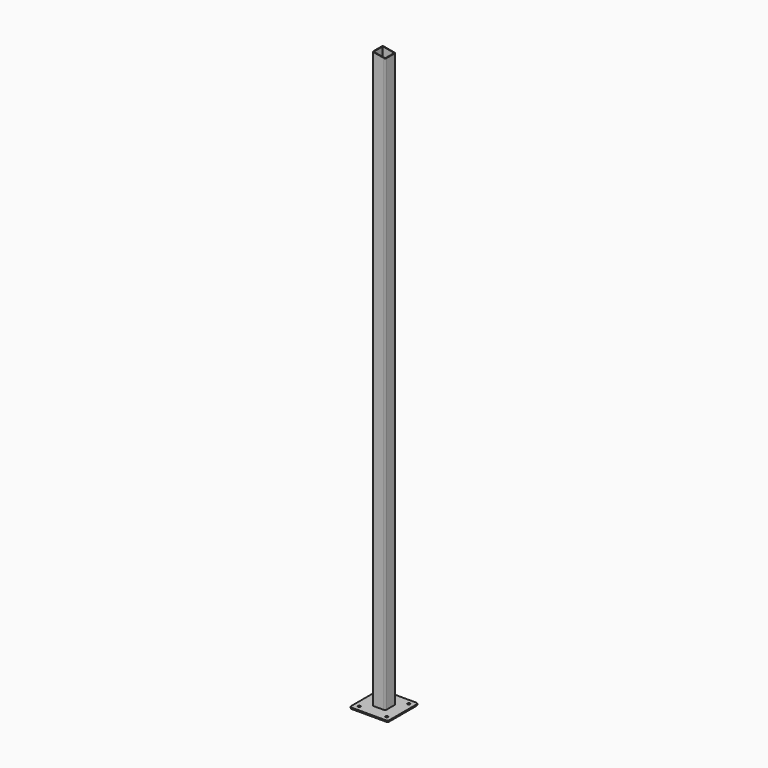
from build123d import *

# Parameters (mm, degrees)
F0_R     = 6
F1_DEPTH = 6
F3_DEPTH = 2714.7
F5_DEPTH = 120.001


with BuildPart() as f1:
    # F0 (on Top) → F1 (new body)
    with BuildSketch(Plane.XY):
        with BuildLine():
            ThreePointArc((90, 80), (87.071068, 87.071068), (80, 90))
            Line((80, 90), (-80, 90))
            ThreePointArc((-80, 90), (-87.071068, 87.071068), (-90, 80))
            Line((-90, 80), (-90, -80))
            ThreePointArc((-90, -80), (-87.071068, -87.071068), (-80, -90))
            Line((-80, -90), (80, -90))
            ThreePointArc((80, -90), (87.071068, -87.071068), (90, -80))
            Line((90, -80), (90, 80))
        make_face()
        with Locations((-65, -65)):
            Circle(F0_R, mode=Mode.SUBTRACT)
        with Locations((65, -65)):
            Circle(F0_R, mode=Mode.SUBTRACT)
        with Locations((-65, 65)):
            Circle(F0_R, mode=Mode.SUBTRACT)
        with Locations((65, 65)):
            Circle(F0_R, mode=Mode.SUBTRACT)
    extrude(amount=F1_DEPTH)

    # F2 (on face) → F3 (join)
    with BuildSketch(Plane.XY.offset(6)):
        with BuildLine():
            Line((-25, -30), (25, -30))
            ThreePointArc((25, -30), (28.535534, -28.535534), (30, -25))
            Line((30, -25), (30, 25))
            ThreePointArc((30, 25), (28.535534, 28.535534), (25, 30))
            Line((25, 30), (-25, 30))
            ThreePointArc((-25, 30), (-28.535534, 28.535534), (-30, 25))
            Line((-30, 25), (-30, -25))
            ThreePointArc((-30, -25), (-28.535534, -28.535534), (-25, -30))
        make_face()
        with BuildLine():
            ThreePointArc((25, 27), (26.414214, 26.414214), (27, 25))
            Line((27, 25), (27, -25))
            ThreePointArc((27, -25), (26.414214, -26.414214), (25, -27))
            Line((25, -27), (-25, -27))
            ThreePointArc((-25, -27), (-26.414214, -26.414214), (-27, -25))
            Line((-27, -25), (-27, 25))
            ThreePointArc((-27, 25), (-26.414214, 26.414214), (-25, 27))
            Line((-25, 27), (25, 27))
        make_face(mode=Mode.SUBTRACT)
    extrude(amount=F3_DEPTH)

    # F4 (on face) → F5 (cut, through all)
    with BuildSketch(Plane.XZ.offset(30)):
        Polygon((31.369732, 2720.7), (-30.02377, 2720.7), (31.369732, 2709.874669), align=None)
    extrude(amount=-F5_DEPTH, mode=Mode.SUBTRACT)


solid = f1.part
